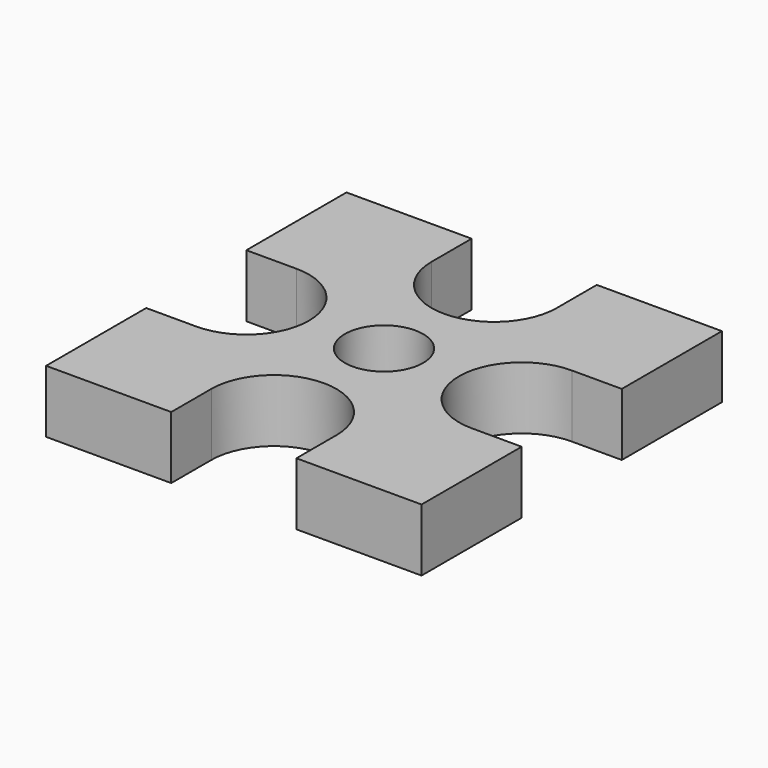
from build123d import *

# Parameters (mm, degrees)
F0_R     = 3.9751
F1_DEPTH = 6.35


with BuildPart() as f1:
    # F0 (on Top) → F1 (new body)
    with BuildSketch(Plane.XY):
        with BuildLine():
            Line((12.700801, 0), (12.700801, 5.077876))
            ThreePointArc((12.700801, 5.077876), (19.050801, 11.427876), (25.400801, 5.077876))
            Line((25.400801, 5.077876), (25.400801, 0))
            Line((25.400801, 0), (38.100801, 0))
            Line((38.100801, 0), (38.100801, 12.698676))
            Line((38.100801, 12.698676), (33.022925, 12.698676))
            ThreePointArc((33.022925, 12.698676), (26.672925, 19.048676), (33.022925, 25.398676))
            Line((33.022925, 25.398676), (38.100801, 25.398676))
            Line((38.100801, 25.398676), (38.1, 38.1))
            Line((38.1, 38.1), (25.402124, 38.098676))
            Line((25.402124, 38.098676), (25.402124, 33.020801))
            ThreePointArc((25.402124, 33.020801), (19.052124, 26.670801), (12.702124, 33.020801))
            Line((12.702124, 33.020801), (12.702124, 38.098676))
            Line((12.702124, 38.098676), (0, 38.1))
            Line((0, 38.1), (0.002124, 25.4))
            Line((0.002124, 25.4), (5.08, 25.4))
            ThreePointArc((5.08, 25.4), (11.43, 19.05), (5.08, 12.7))
            Line((5.08, 12.7), (0.002124, 12.7))
            Line((0.002124, 12.7), (0, 0))
            Line((0, 0), (12.700801, 0))
        make_face()
        with Locations((19.051462, 19.049338)):
            Circle(F0_R, mode=Mode.SUBTRACT)
    extrude(amount=F1_DEPTH)


solid = f1.part
